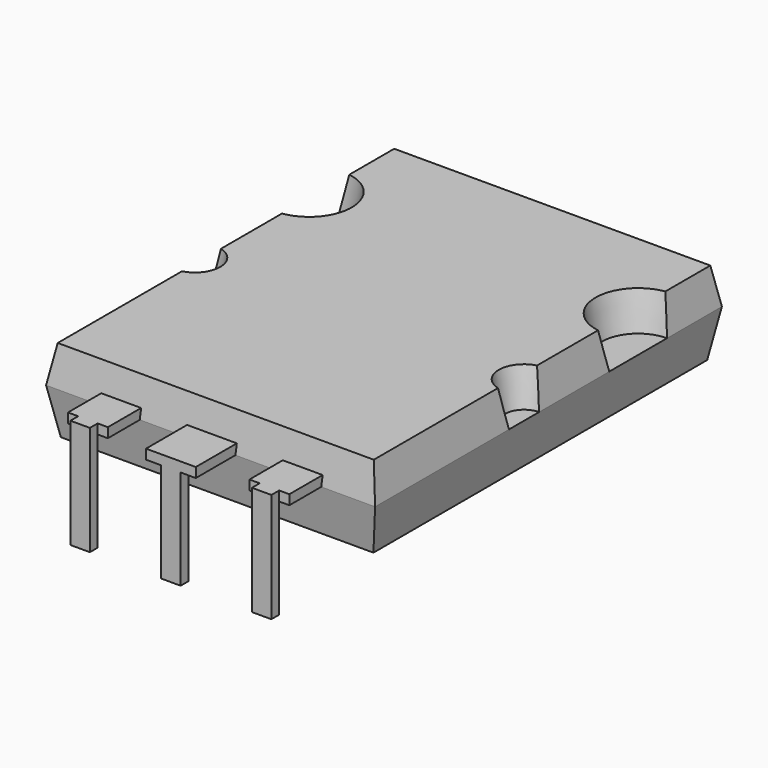
from build123d import *

# Parameters (mm, degrees)
F4_DEPTH  = 2.205
F4_TAPER  = 10
F5_W      = 2.995
F5_H      = 0.9355060756
F5_H_2    = 2.985
F5_W_2    = 2.4
F6_DEPTH  = 0.585
F7_W      = 19.795
F7_H      = 26.085
F8_DEPTH  = 2.795
F8_TAPER  = 10
F9_W      = 1.17
F9_H      = 0.585
F10_DEPTH = 6


with BuildPart() as f4:
    # F3 (on Top) → F4 (new body)
    with BuildSketch(Plane.XY):
        with BuildLine():
            Line((9.8975, 21.9575), (9.8975, 26.085))
            Line((9.8975, 26.085), (-9.8975, 26.085))
            Line((-9.8975, 26.085), (-9.8975, 21.9575))
            ThreePointArc((-9.8975, 21.9575), (-7.725, 19.785), (-9.8975, 17.6125))
            Line((-9.8975, 17.6125), (-9.8975, 12.33))
            ThreePointArc((-9.8975, 12.33), (-8.7675, 11.2), (-9.8975, 10.07))
            Line((-9.8975, 10.07), (-9.8975, 0))
            Line((-9.8975, 0), (9.8975, 0))
            Line((9.8975, 0), (9.8975, 10.07))
            ThreePointArc((9.8975, 10.07), (8.7675, 11.2), (9.8975, 12.33))
            Line((9.8975, 12.33), (9.8975, 17.6125))
            ThreePointArc((9.8975, 17.6125), (7.725, 19.785), (9.8975, 21.9575))
        make_face()
    extrude(amount=F4_DEPTH, taper=F4_TAPER)

    # F5 (on face) → F6 (join)
    with BuildSketch(Plane.XY):
        with Locations((0, 0.4677530378)):
            Rectangle(F5_W, F5_H)
        with Locations((0, -1.4925)):
            Rectangle(F5_W, F5_H_2)
        with Locations((-5.46, 0.4677530378)):
            Rectangle(F5_W_2, F5_H)
        Polygon((-4.26, 0), (-6.66, 0), (-6.66, -2.4), (-6.045, -2.4), (-6.045, -2.985), (-4.875, -2.985), (-4.875, -2.4), (-4.26, -2.4), align=None)
        Polygon((4.875, -2.985), (6.045, -2.985), (6.045, -2.4), (6.66, -2.4), (6.66, 0), (4.26, 0), (4.26, -2.4), (4.875, -2.4), align=None)
        with Locations((5.46, 0.4677530378)):
            Rectangle(F5_W_2, F5_H)
    extrude(amount=F6_DEPTH)

    # F7 (on face) → F8 (join)
    with BuildSketch(Plane.XY):
        with Locations((0, 13.0425)):
            Rectangle(F7_W, F7_H)
    extrude(amount=-F8_DEPTH, taper=F8_TAPER)

    # F9 (on face) → F10 (join)
    with BuildSketch(Plane(origin=(0, 0, 0), x_dir=(1, 0, 0), z_dir=(0, 0, -1))):
        with Locations((0, 2.6925)):
            Rectangle(F9_W, F9_H)
        with Locations((-5.46, 2.6925)):
            Rectangle(F9_W, F9_H)
        with Locations((5.46, 2.6925)):
            Rectangle(F9_W, F9_H)
    extrude(amount=F10_DEPTH)


solid = f4.part
